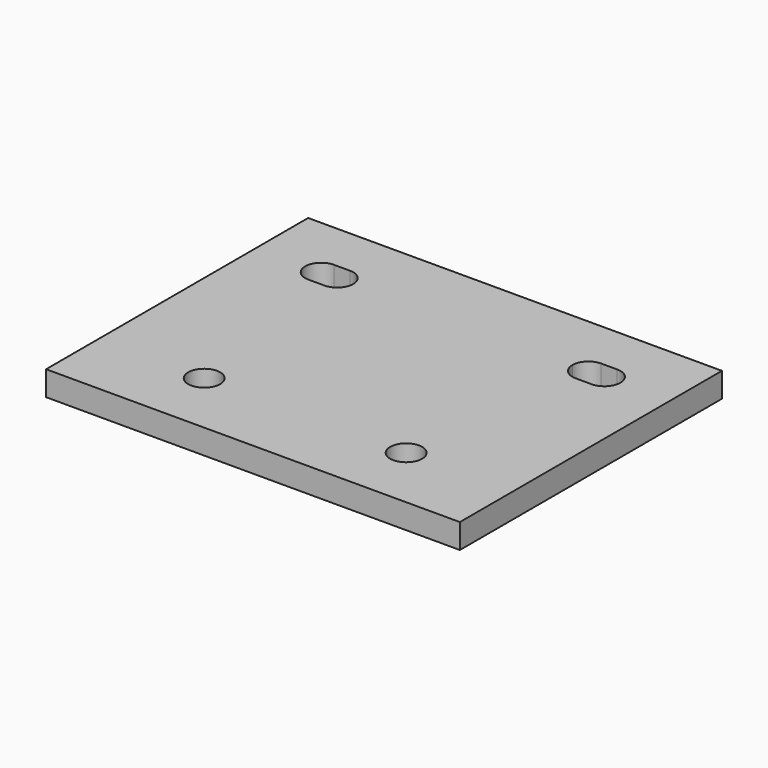
from build123d import *

# Parameters (mm, degrees)
F0_W     = 84
F0_H     = 66.5
F0_R     = 3.25
F1_DEPTH = 5


with BuildPart() as f1:
    # F0 (on Top) → F1 (new body)
    with BuildSketch(Plane.XY):
        with Locations((0, 20)):
            Rectangle(F0_W, F0_H)
        with Locations((-20.5, 0)):
            Circle(F0_R, mode=Mode.SUBTRACT)
        with BuildLine():
            ThreePointArc((23.75, 0), (20.5, -3.25), (17.25, 0))
            ThreePointArc((17.25, 0), (20.5, 3.25), (23.75, 0))
        make_face(mode=Mode.SUBTRACT)
        with BuildLine():
            ThreePointArc((-25.5, 43.25), (-23.201903, 42.298097), (-22.25, 40))
            ThreePointArc((-22.25, 40), (-23.19161, 37.712242), (-25.470823, 36.750131))
            ThreePointArc((-25.470823, 36.750131), (-25.500403, 36.75), (-25.529982, 36.750138))
            Line((-25.529982, 36.750138), (-28.809505, 36.750545))
            ThreePointArc((-28.809505, 36.750545), (-31.999864, 40.029754), (-28.75, 43.25))
            Line((-28.75, 43.25), (-25.5, 43.25))
        make_face(mode=Mode.SUBTRACT)
        with BuildLine():
            ThreePointArc((25.500037, 36.75), (23.201916, 37.70189), (22.25, 40))
            ThreePointArc((22.25, 40), (23.202345, 42.298539), (25.501249, 43.25))
            Line((25.501249, 43.25), (28.665276, 43.248784))
            ThreePointArc((28.665276, 43.248784), (31.999484, 40.057825), (28.781145, 36.750038))
            ThreePointArc((28.781145, 36.750038), (28.750037, 36.749888), (28.718929, 36.750037))
            Line((28.718929, 36.750037), (25.500037, 36.75))
        make_face(mode=Mode.SUBTRACT)
    extrude(amount=F1_DEPTH)


solid = f1.part
